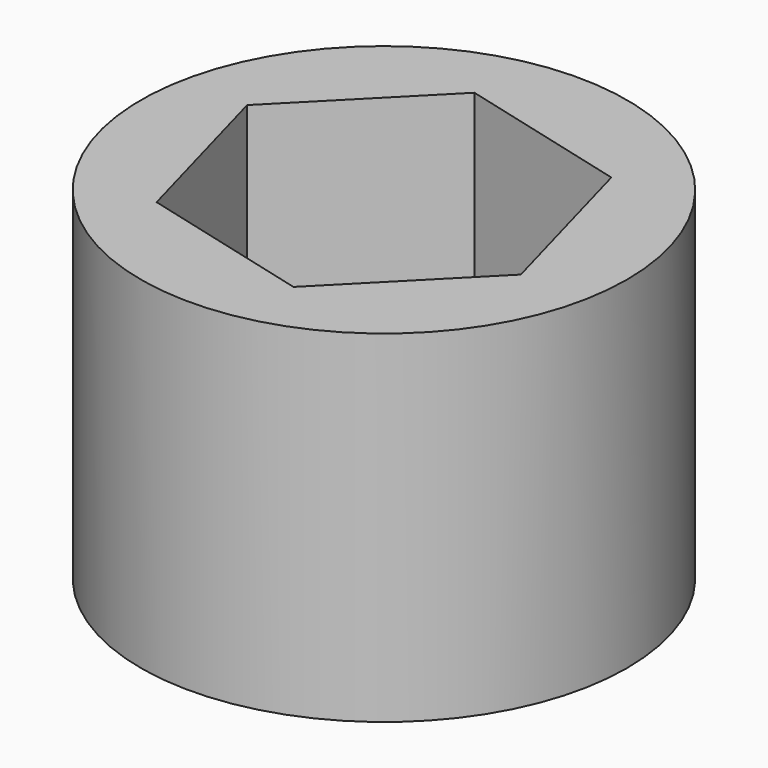
from build123d import *

# Parameters (mm, degrees)
F0_R     = 65.171553
F1_DEPTH = 91.694
F4_DEPTH = 91.695


with BuildPart() as f1:
    # F0 (on Top) → F1 (new body)
    with BuildSketch(Plane.XY):
        Circle(F0_R)
    extrude(amount=F1_DEPTH)

    # F3 (on face) → F4 (cut, through all)
    with BuildSketch(Plane.XY.offset(91.694)):
        Polygon((33.668963, 34.111973), (-12.707354, 46.214163), (-46.376316, 12.10219), (-33.668963, -34.111973), (12.707354, -46.214163), (46.376316, -12.10219), align=None)
    extrude(amount=-F4_DEPTH, mode=Mode.SUBTRACT)


solid = f1.part
